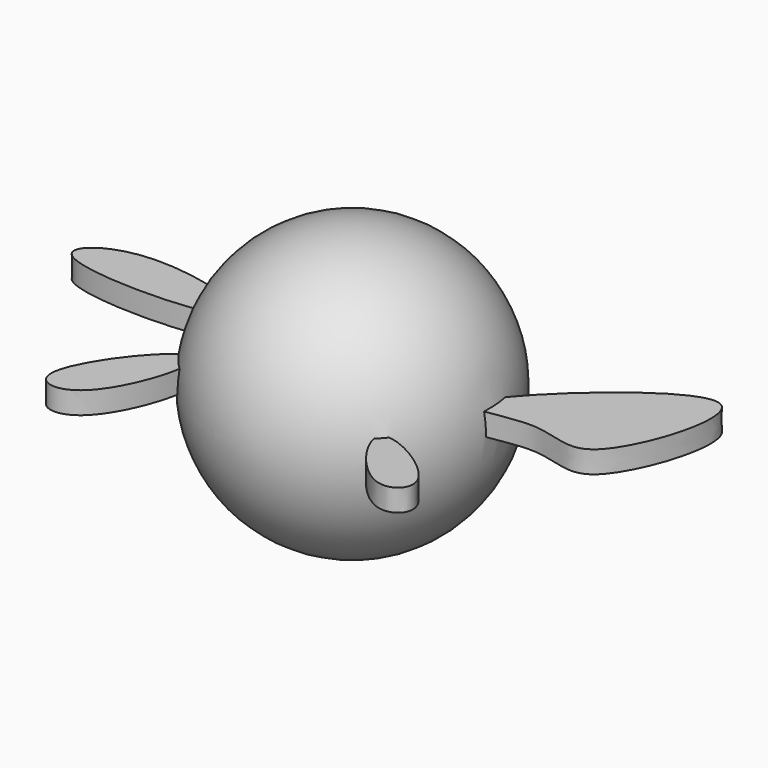
from build123d import *

# Parameters (mm, degrees)
F5_DEPTH = 2.032


with BuildPart() as f1:
    # F0 (on Top) → F1 (revolve)
    with BuildSketch(Plane.XY):
        with BuildLine():
            Line((0, -12.7), (0, 12.7))
            ThreePointArc((0, 12.7), (-12.7, 0), (0, -12.7))
        make_face()
    revolve(axis=Axis((0, 0, 0), (0, -1, 0)))

    # F2 (on Top) + F3 (on Top) → F5 (join)
    with BuildSketch(Plane.XY):
        with BuildLine():
            add(Edge.make_bspline(
                [(-10.9918132212, 0), (-10.0577564866, 1.3559956811), (-22.0621618719, 5.2888968354), (-30.4974431762, -1.9048035346), (-12.0568089239, -1.5460833588), (-10.9918132212, 0)],
                knots=[0, 0, 0, 0, 0.3572272399, 0.5926955383, 1, 1, 1, 1], degree=3))
        make_face()
        with BuildLine():
            add(Edge.make_bspline(
                [(10.9918123134, 0), (11.1497141508, 2.1587421255), (30.4649991747, 20.3358374576), (23.1843343474, -3.6668601029), (17.44716018, 1.3878448006), (10.9036311724, -1.2055612974), (10.9918123134, 0)],
                knots=[0, 0, 0, 0, 0.3405356795, 0.6125251618, 0.8098259951, 1, 1, 1, 1], degree=3))
        make_face()
    with BuildSketch(Plane.XY):
        with BuildLine():
            add(Edge.make_bspline(
                [(-9.1440007091, -6.8580000661), (-10.6053034716, -6.3851140961), (-18.5643973908, -16.2954503659), (-10.7609585266, -17.8279019397), (-7.7549880842, -7.3074925323), (-9.1440007091, -6.8580000661)],
                knots=[0, 0, 0, 0, 0.3975006473, 0.622163571, 1, 1, 1, 1], degree=3))
        make_face()
        with BuildLine():
            add(Edge.make_bspline(
                [(9.1439997777, -8.0771995708), (8.2723022419, -8.9109545473), (12.9817126127, -15.8760986243), (17.8276538542, -11.670651754), (10.0357321804, -7.2242817894), (9.1439997777, -8.0771995708)],
                knots=[0, 0, 0, 0, 0.3776435433, 0.6136767969, 1, 1, 1, 1], degree=3))
        make_face()
    extrude(amount=F5_DEPTH)


solid = f1.part
